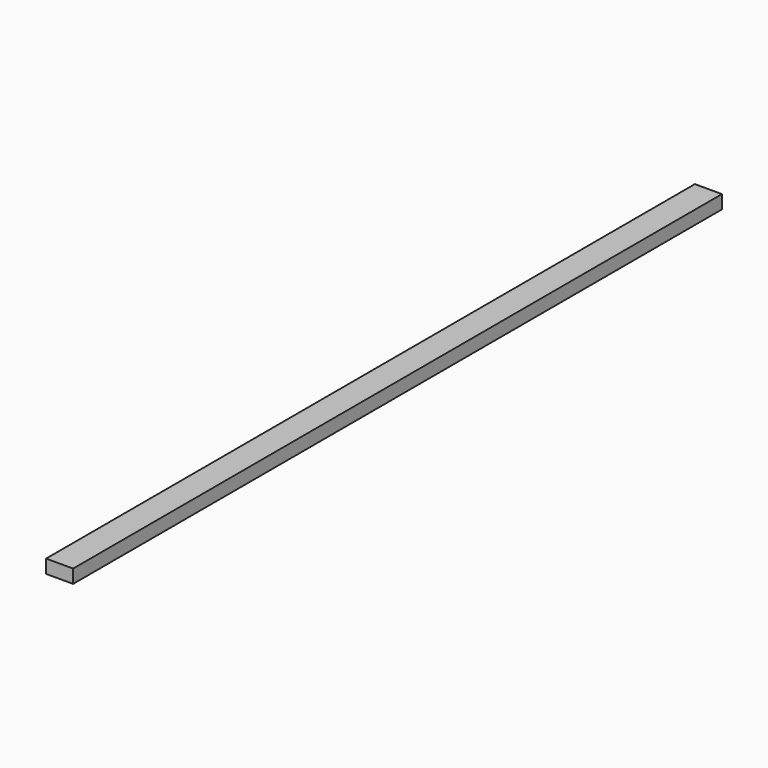
from build123d import *

# Parameters (mm, degrees)
F0_W     = 100
F0_H     = 100
F0_H_2   = 2800
F1_DEPTH = 50


with BuildPart() as f1:
    # F0 (on Top) → F1 (new body)
    with BuildSketch(Plane.XY):
        with Locations((-1850, -1450)):
            Rectangle(F0_W, F0_H)
        with Locations((-1850, 1450)):
            Rectangle(F0_W, F0_H)
        with Locations((-1850, 0)):
            Rectangle(F0_W, F0_H_2)
    extrude(amount=F1_DEPTH)


solid = f1.part
